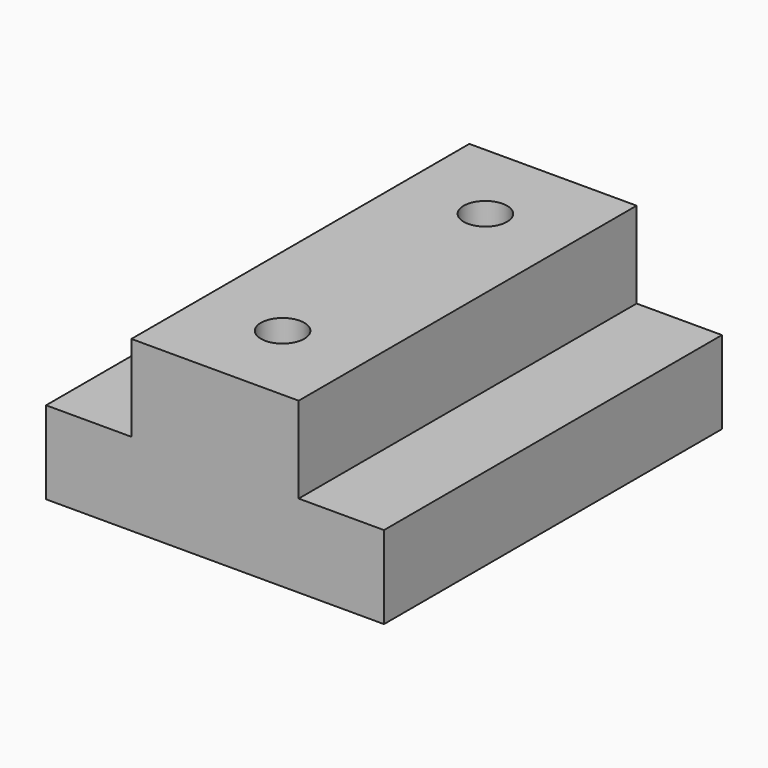
from build123d import *

# Parameters (mm, degrees)
F1_DEPTH       = 63.5
F3_D           = 6.5278
F3_CSINK_D     = 12.7
F3_CSINK_ANGLE = 82


with BuildPart() as f1:
    # F0 (on Front) → F1 (new body)
    with BuildSketch(Plane.XZ):
        Polygon((0, 12.446), (0, 0), (50.8, 0), (50.8, 12.446), (37.973, 12.446), (37.973, 25.4), (12.827, 25.4), (12.827, 12.446), align=None)
    extrude(amount=F1_DEPTH)

    # F3 (through all)
    with Locations(Plane(origin=(0, 0, 0), x_dir=(1, 0, 0), z_dir=(0, 0, -1))):
        with Locations((25.4, 50.8), (25.4, 12.7)):
            CounterSinkHole(F3_D / 2, F3_CSINK_D / 2, counter_sink_angle=F3_CSINK_ANGLE)


solid = f1.part
